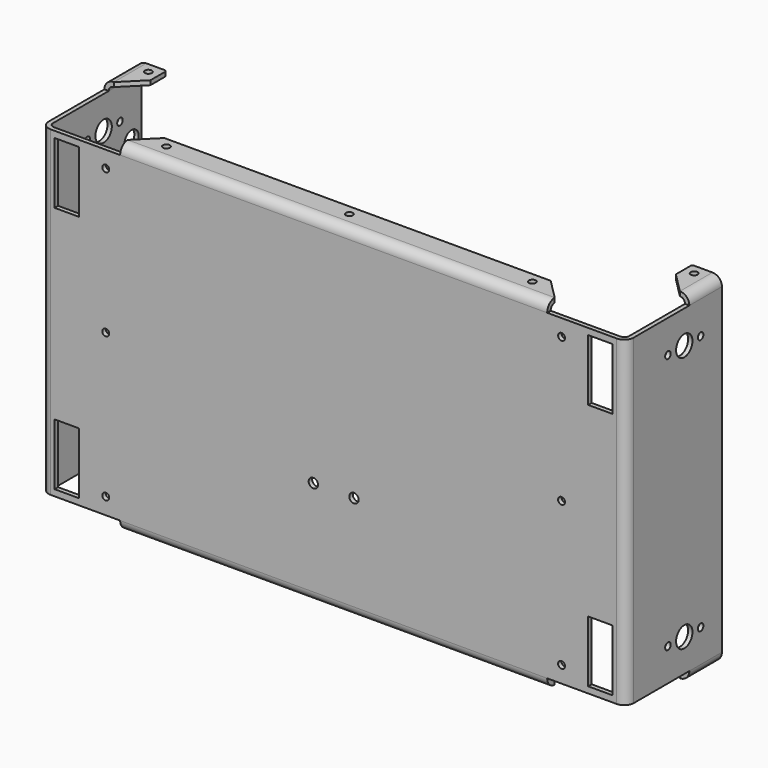
from build123d import *

# Parameters (mm, degrees)
F1_DEPTH  = 125.565916
F2_W      = 1.70942
F2_H      = 15.875
F2_W_2    = 166.62245
F2_H_2    = 1.70942
F3_DEPTH  = 3.69316
F4_W      = 1.70942
F4_H      = 15.875
F4_W_2    = 166.62245
F4_H_2    = 1.70942
F5_DEPTH  = 3.69316
F6_W      = 166.62245
F6_H      = 1.70942
F7_DEPTH  = 9.92124
F8_W      = 15.875
F8_H      = 1.70942
F9_DEPTH  = 9.92124
F10_W     = 15.875
F10_H     = 1.70942
F11_DEPTH = 9.92124
F12_R     = 1.98374
F13_R     = 3.69316
F14_SIZE  = 7.9375
F15_R     = 1.35255
F16_DEPTH = 132.952236
F17_W     = 9.532925
F17_H     = 24
F17_R     = 1.35255
F17_R_2   = 1.8288
F18_DEPTH = 1.70942
F19_R     = 1.35255
F19_R_2   = 4
F20_DEPTH = 228.27074
F21_R     = 0.762
F22_R     = 11.253
F22_R_2   = 1.5
F22_R_3   = 3.5
F23_DEPTH = 1.70942


with BuildPart() as f1:
    # F0 (on Top) → F1 (new body)
    with BuildSketch(Plane.XY):
        Polygon((0, 44.989725), (0, 0), (-224.8519, 0), (-224.8519, 44.989725), (-226.56132, 44.989725), (-226.56132, -1.70942), (1.70942, -1.70942), (1.70942, 44.989725), align=None)
    extrude(amount=F1_DEPTH)

    # F2 (on face) → F3 (join)
    with BuildSketch(Plane(origin=(0, 0, 0), x_dir=(1, 0, 0), z_dir=(0, 0, -1))):
        with Locations((0.85471, -37.052225)):
            Rectangle(F2_W, F2_H)
        with Locations((-112.42595, 0.85471)):
            Rectangle(F2_W_2, F2_H_2)
        with Locations((-225.70661, -37.052225)):
            Rectangle(F2_W, F2_H)
    extrude(amount=F3_DEPTH)

    # F4 (on face) → F5 (join)
    with BuildSketch(Plane.XY.offset(125.565916)):
        with Locations((-225.70661, 37.052225)):
            Rectangle(F4_W, F4_H)
        with Locations((0.85471, 37.052225)):
            Rectangle(F4_W, F4_H)
        with Locations((-112.42595, -0.85471)):
            Rectangle(F4_W_2, F4_H_2)
    extrude(amount=F5_DEPTH)

    # F6 (on face) → F7 (join)
    with BuildSketch(Plane(origin=(0, 0, 0), x_dir=(-1, 0, 0), z_dir=(0, 1, 0))):
        with Locations((112.42595, -2.83845)):
            Rectangle(F6_W, F6_H)
        with Locations((112.42595, 128.404366)):
            Rectangle(F6_W, F6_H)
    extrude(amount=F7_DEPTH)

    # F8 (on face) → F9 (join)
    with BuildSketch(Plane.YZ.offset(-224.8519)):
        with Locations((37.052225, 128.404366)):
            Rectangle(F8_W, F8_H)
        with Locations((37.052225, -2.83845)):
            Rectangle(F8_W, F8_H)
    extrude(amount=F9_DEPTH)

    # F10 (on face) → F11 (join)
    with BuildSketch(Plane(origin=(0, 0, 0), x_dir=(0, -1, 0), z_dir=(-1, 0, 0))):
        with Locations((-37.052225, -2.83845)):
            Rectangle(F10_W, F10_H)
        with Locations((-37.052225, 128.404366)):
            Rectangle(F10_W, F10_H)
    extrude(amount=F11_DEPTH)

    # F12
    f12_edges = [f1.edges().sort_by_distance(p)[0] for p in [
        (0, 37.052225, 127.549656),
        (-112.42595, 0, 127.549656),
        (-224.8519, 37.052225, 127.549656),
        (-224.8519, 37.052225, -1.98374),
        (-112.42595, 0, -1.98374),
        (0, 37.052225, -1.98374),
        (0, 0, 62.782958),
        (-224.8519, 0, 62.782958),
    ]]
    fillet(f12_edges, radius=F12_R)

    # F13
    f13_edges = [f1.edges().sort_by_distance(p)[0] for p in [
        (-226.56132, 37.052225, -3.69316),
        (-112.42595, -1.70942, -3.69316),
        (-226.56132, -1.70942, 62.782958),
        (-112.42595, -1.70942, 129.259076),
        (-226.56132, 37.052225, 129.259076),
        (1.70942, 37.052225, -3.69316),
        (1.70942, -1.70942, 62.782958),
        (1.70942, 37.052225, 129.259076),
    ]]
    fillet(f13_edges, radius=F13_R)

    # F14
    f14_edges = [f1.edges().sort_by_distance(p)[0] for p in [
        (-214.93066, 29.114725, 128.404366),
        (-195.737175, 9.92124, 128.404366),
        (-29.114725, 9.92124, 128.404366),
        (-9.92124, 29.114725, 128.404366),
        (-29.114725, 9.92124, -2.83845),
        (-9.92124, 29.114725, -2.83845),
        (-214.93066, 29.114725, -2.83845),
        (-195.737175, 9.92124, -2.83845),
    ]]
    chamfer(f14_edges, length=F14_SIZE)

    # F15 (on face) → F16 (cut, through all)
    with BuildSketch(Plane(origin=(0, 0, -3.69316), x_dir=(1, 0, 0), z_dir=(0, 0, -1))):
        with Locations((-41.020975, -5.95249)):
            Circle(F15_R)
        with Locations((-112.42595, -5.95249)):
            Circle(F15_R)
        with Locations((-183.830925, -5.95249)):
            Circle(F15_R)
        with Locations((-218.89941, -41.020975)):
            Circle(F15_R)
        with Locations((-5.95249, -41.020975)):
            Circle(F15_R)
    extrude(amount=-F16_DEPTH, mode=Mode.SUBTRACT)

    # F17 (on face) → F18 (cut, through all)
    with BuildSketch(Plane.XZ.offset(1.70942)):
        with Locations((-216.514197, 14.457958)):
            Rectangle(F17_W, F17_H)
        with Locations((-216.514197, 111.107958)):
            Rectangle(F17_W, F17_H)
        with Locations((-8.337703, 111.107958)):
            Rectangle(F17_W, F17_H)
        with Locations((-8.337703, 14.457958)):
            Rectangle(F17_W, F17_H)
        with Locations((-23.499623, 119.139208)):
            Circle(F17_R)
        with Locations((-23.499623, 6.426708)):
            Circle(F17_R)
        with Locations((-201.352277, 6.426708)):
            Circle(F17_R)
        with Locations((-201.352277, 119.139208)):
            Circle(F17_R)
        with Locations((-23.499623, 62.782958)):
            Circle(F17_R)
        with Locations((-201.352277, 62.782958)):
            Circle(F17_R)
        with Locations((-120.36345, 37.382958)):
            Circle(F17_R_2)
        with Locations((-104.48845, 37.382958)):
            Circle(F17_R_2)
    extrude(amount=-F18_DEPTH, mode=Mode.SUBTRACT)

    # F19 (on face) → F20 (cut, through all)
    with BuildSketch(Plane(origin=(-226.56132, 0, 0), x_dir=(0, -1, 0), z_dir=(-1, 0, 0))):
        with Locations((-34.594617, 12.78067)):
            Circle(F19_R)
        with Locations((-18.657117, 12.78067)):
            Circle(F19_R)
        with Locations((-18.657117, 112.785246)):
            Circle(F19_R)
        with Locations((-34.594617, 112.785246)):
            Circle(F19_R)
        with Locations((-26.625867, 112.785246)):
            Circle(F19_R_2)
        with Locations((-26.625867, 12.78067)):
            Circle(F19_R_2)
    extrude(amount=-F20_DEPTH, mode=Mode.SUBTRACT)

    # F21
    f21_edges = [f1.edges().sort_by_distance(p)[0] for p in [
        (-214.93066, 44.989725, -2.83845),
        (-214.93066, 44.989725, 128.404366),
        (-9.92124, 44.989725, 128.404366),
        (-9.92124, 44.989725, -2.83845),
    ]]
    fillet(f21_edges, radius=F21_R)

    # F22 (on face) → F23 (cut, through all)
    with BuildSketch(Plane(origin=(-226.56132, 0, 0), x_dir=(0, -1, 0), z_dir=(-1, 0, 0))):
        with Locations((-23.486732, 62.782958)):
            Circle(F22_R)
        with Locations((-38.986727, 78.282952)):
            Circle(F22_R_2)
        with Locations((-7.986738, 78.282952)):
            Circle(F22_R_2)
        with Locations((-7.986738, 47.282964)):
            Circle(F22_R_2)
        with Locations((-38.986727, 47.282964)):
            Circle(F22_R_2)
        with Locations((-40.239725, 104.147574)):
            Circle(F22_R_3)
    extrude(amount=-F23_DEPTH, mode=Mode.SUBTRACT)


solid = f1.part
